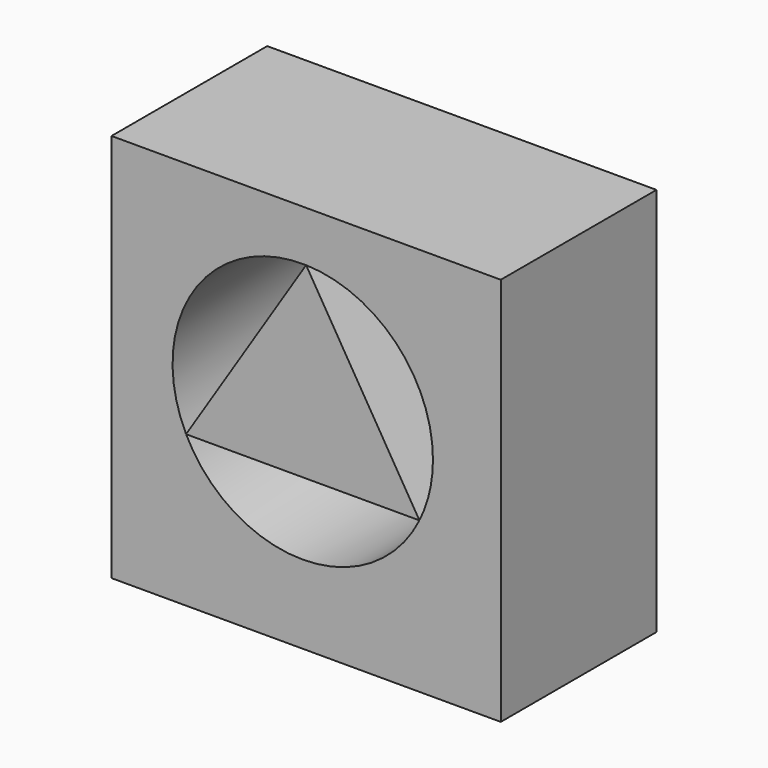
from build123d import *

# Parameters (mm, degrees)
F0_W     = 50.8
F0_H     = 50.8
F1_DEPTH = 25.4
F2_DEPTH = 25.4


with BuildPart() as f1:
    # F0 (on Front) → F1 (new body)
    with BuildSketch(Plane.XZ):
        with Locations((-17.509114, 5.700153)):
            Rectangle(F0_W, F0_H)
        with BuildLine():
            ThreePointArc((-17.512876, 24.520725), (-5.783645, 19.393501), (-0.96154, 7.535568))
            ThreePointArc((-0.96154, 7.535568), (-1.408018, 3.666104), (-2.723989, 0))
            ThreePointArc((-2.723989, 0), (-17.952383, -9.455275), (-33.180776, 0))
            ThreePointArc((-33.180776, 0), (-32.270004, 16.684035), (-17.512876, 24.520725))
        make_face(mode=Mode.SUBTRACT)
    extrude(amount=F1_DEPTH)


with BuildPart() as f2:
    # F0 (on Front) → F2 (new body)
    with BuildSketch(Plane.XZ):
        Polygon((-2.723989, 0), (-17.512876, 24.520725), (-33.180776, 0), align=None)
    extrude(amount=F2_DEPTH)


solid = Compound([f1.part, f2.part])
